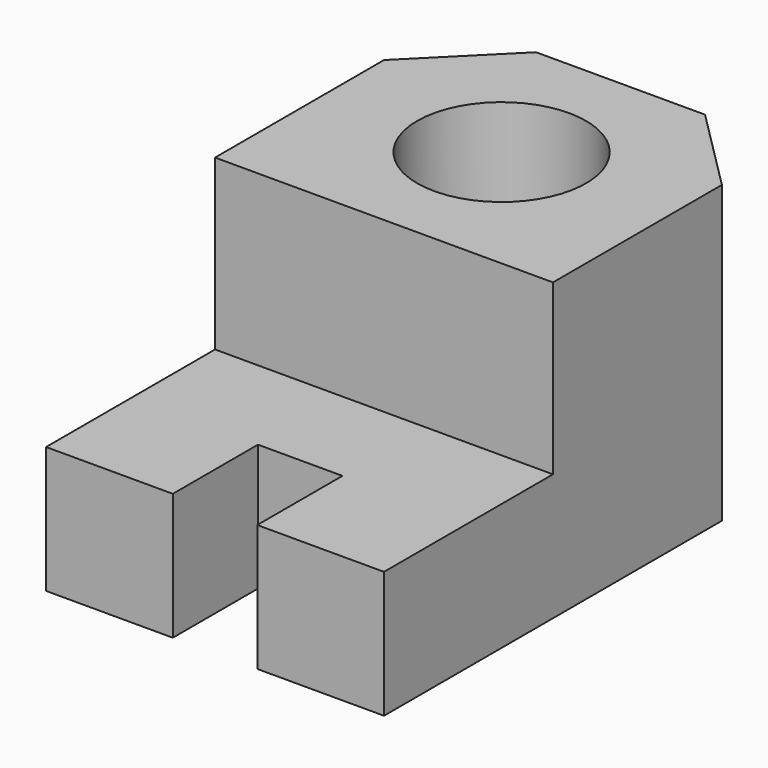
from build123d import *

# Parameters (mm, degrees)
F1_DEPTH = 19.05
F0_W     = 50.8
F0_H     = 44.45
F2_DEPTH = 44.45
F3_SIZE  = 12.7
F5_D     = 25.4


with BuildPart() as f1:
    # F0 (on Top) → F1 (new body)
    with BuildSketch(Plane.XY):
        Polygon((-26.007392, 0), (-6.957392, 0), (-6.957392, 16.002), (5.742608, 16.002), (5.742608, 0), (24.792608, 0), (24.792608, 31.75), (-26.007392, 31.75), align=None)
    extrude(amount=F1_DEPTH)

    # F0 (on Top) → F2 (join)
    with BuildSketch(Plane.XY):
        with Locations((-0.607392, 53.975)):
            Rectangle(F0_W, F0_H)
    extrude(amount=F2_DEPTH)

    # F3
    f3_edges = [f1.edges().sort_by_distance(p)[0] for p in [
        (24.792608, 76.2, 22.225),
        (-26.007392, 76.2, 22.225),
    ]]
    chamfer(f3_edges, length=F3_SIZE)

    # F5 (through all)
    with Locations(Plane.XY.offset(44.45)):
        with Locations((-0.607392, 53.848)):
            Hole(F5_D / 2)


solid = f1.part
